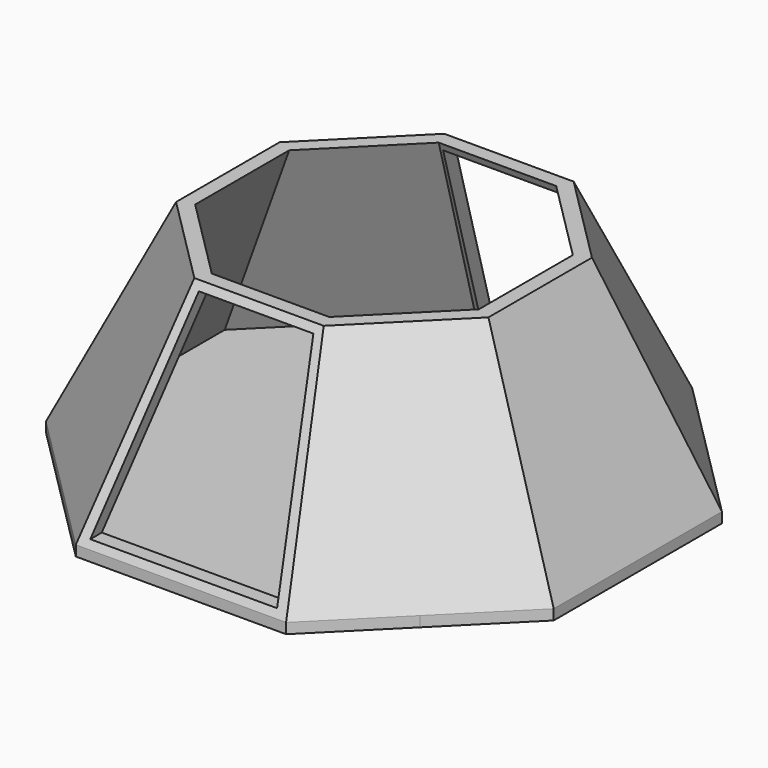
from build123d import *

# Parameters (mm, degrees)
F1_DEPTH = 2
F6_T     = -2.5
F8_DEPTH = 84.8


with BuildPart() as f1:
    # F0 (on Top) → F1 (new body)
    with BuildSketch(Plane.XY):
        with BuildLine():
            ThreePointArc((34.4714555828, -34.4714555828), (45.0391272099, -18.6558173278), (48.75, 0))
            ThreePointArc((48.75, 0), (45.0391271917, 18.6558173718), (34.4714555154, 34.4714556502))
            ThreePointArc((34.4714555154, 34.4714556502), (18.655817355, 45.0391271987), (1.543e-07, 48.75))
            ThreePointArc((1.543e-07, 48.75), (-18.6558172398, 45.0391272464), (-34.4714555572, 34.4714556085))
            ThreePointArc((-34.4714555572, 34.4714556085), (-45.039127203, 18.6558173446), (-48.75, 0))
            ThreePointArc((-48.75, 0), (-45.0391272099, -18.6558173278), (-34.4714555828, -34.4714555828))
            ThreePointArc((-34.4714555828, -34.4714555828), (-18.6558173238, -45.0391272116), (8.6e-09, -48.75))
            ThreePointArc((8.6e-09, -48.75), (18.6558173318, -45.0391272083), (34.4714555828, -34.4714555828))
        make_face()
        with BuildLine():
            Line((48.75, -20.1929111657), (48.75, 0))
            ThreePointArc((48.75, 0), (45.0391272099, -18.6558173278), (34.4714555828, -34.4714555828))
            Line((34.4714555828, -34.4714555828), (48.75, -20.1929111657))
        make_face()
        with BuildLine():
            ThreePointArc((34.4714555154, 34.4714556502), (45.0391271917, 18.6558173718), (48.75, 0))
            Line((48.75, 0), (48.75, 20.1929111657))
            Line((48.75, 20.1929111657), (34.4714555154, 34.4714556502))
        make_face()
        with BuildLine():
            ThreePointArc((1.543e-07, 48.75), (18.655817355, 45.0391271987), (34.4714555154, 34.4714556502))
            Line((34.4714555154, 34.4714556502), (20.1929111657, 48.75))
            Line((20.1929111657, 48.75), (1.543e-07, 48.75))
        make_face()
        with BuildLine():
            Line((20.1929111657, -48.75), (34.4714555828, -34.4714555828))
            ThreePointArc((34.4714555828, -34.4714555828), (18.6558173318, -45.0391272083), (8.6e-09, -48.75))
            Line((8.6e-09, -48.75), (20.1929111657, -48.75))
        make_face()
        with BuildLine():
            ThreePointArc((-34.4714555572, 34.4714556085), (-18.6558172398, 45.0391272464), (1.543e-07, 48.75))
            Line((1.543e-07, 48.75), (-20.1929111657, 48.75))
            Line((-20.1929111657, 48.75), (-34.4714555572, 34.4714556085))
        make_face()
        with BuildLine():
            Line((-20.1929111657, -48.75), (8.6e-09, -48.75))
            ThreePointArc((8.6e-09, -48.75), (-18.6558173238, -45.0391272116), (-34.4714555828, -34.4714555828))
            Line((-34.4714555828, -34.4714555828), (-20.1929111657, -48.75))
        make_face()
        with BuildLine():
            ThreePointArc((-48.75, 0), (-45.039127203, 18.6558173446), (-34.4714555572, 34.4714556085))
            Line((-34.4714555572, 34.4714556085), (-48.75, 20.1929111657))
            Line((-48.75, 20.1929111657), (-48.75, 0))
        make_face()
        with BuildLine():
            Line((-48.75, -20.1929111657), (-34.4714555828, -34.4714555828))
            ThreePointArc((-34.4714555828, -34.4714555828), (-45.0391272099, -18.6558173278), (-48.75, 0))
            Line((-48.75, 0), (-48.75, -20.1929111657))
        make_face()
    extrude(amount=F1_DEPTH)

    # F4 (on face) → F5 section 0
    with BuildSketch(Plane.XY.offset(2)):
        Polygon((-48.75, 20.1929111657), (-48.75, -20.1929111657), (-20.1929111657, -48.75), (20.1929111657, -48.75), (48.75, -20.1929111657), (48.75, 20.1929111657), (20.1929111657, 48.75), (-20.1929111657, 48.75), align=None)
    # F3 (on offset) → F5 section 1
    with BuildSketch(Plane.XY.offset(42)):
        Polygon((-30, 12.4264068712), (-30, -12.4264068712), (-12.4264068712, -30), (12.4264068712, -30), (30, -12.4264068712), (30, 12.4264068712), (12.4264068712, 30), (-12.4264068712, 30), align=None)
    loft()

    # F6
    f6_openings = [f1.faces().sort_by_distance(p)[0] for p in [
        (0, 0, 42),
    ]]
    offset(amount=F6_T, openings=f6_openings, kind=Kind.INTERSECTION)

    # F7 (on Front) → F8 (cut, symmetric)
    with BuildSketch(Plane.XZ):
        Polygon((0, 3.399281064), (17.9396793246, 3.399281064), (10.999482125, 40.508095175), (0, 40.508095175), (-10.999482125, 40.508095175), (-17.9396793246, 3.399281064), align=None)
    extrude(amount=F8_DEPTH, both=True, mode=Mode.SUBTRACT)


solid = f1.part
